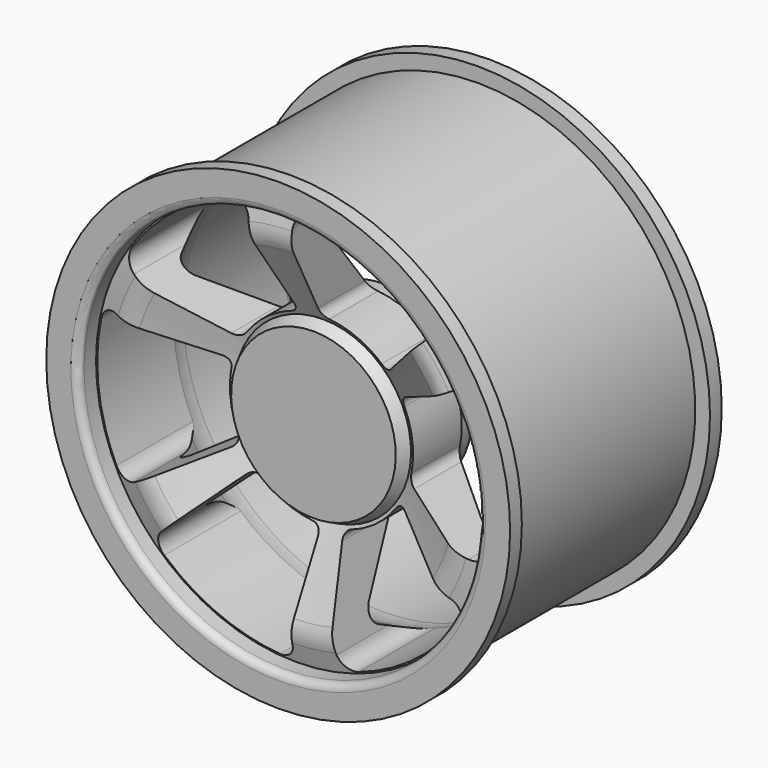
from build123d import *

# Parameters (mm, degrees)
F3_DEPTH      = 95.251
F3_DEPTH_BACK = 19.051


with BuildPart() as f1:
    # F0 (on Right) → F1 (revolve)
    with BuildSketch(Plane.YZ):
        with BuildLine():
            Line((-5.08, 0), (0, 0))
            Line((0, 0), (33.02, 0))
            Line((33.02, 0), (33.02, 38.1))
            Line((33.02, 38.1), (27.46375, 38.1))
            ThreePointArc((27.46375, 38.1), (26.7537984171, 38.2675968343), (26.19375, 38.735))
            Line((26.19375, 38.735), (4.6473478278, 67.4635362296))
            ThreePointArc((4.6473478278, 67.4635362296), (3.5602338618, 72.7865482354), (6.9874784568, 77.0020278137))
            Line((6.9874784568, 77.0020278137), (21.4722255844, 83.9299100354))
            ThreePointArc((21.4722255844, 83.9299100354), (26.8127505394, 85.7866395404), (32.4317030687, 86.4159436988))
            Line((32.4317030687, 86.4159436988), (86.995, 86.4159436988))
            ThreePointArc((86.995, 86.4159436988), (89.2400640303, 87.3458796686), (90.17, 89.5909436988))
            Line((90.17, 89.5909436988), (90.17, 100.2025900266))
            Line((90.17, 100.2025900266), (83.82, 100.2025900266))
            Line((83.82, 100.2025900266), (83.82, 93.8525900266))
            Line((83.82, 93.8525900266), (-17.78, 93.8525900266))
            Line((-17.78, 93.8525900266), (-17.78, 100.2025900266))
            Line((-17.78, 100.2025900266), (-24.13, 100.2025900266))
            Line((-24.13, 100.2025900266), (-24.13, 89.5909436988))
            ThreePointArc((-24.13, 89.5909436988), (-23.2000640303, 87.3458796686), (-20.955, 86.4159436988))
            Line((-20.955, 86.4159436988), (-14.4903469827, 86.4159436988))
            Line((-14.4903469827, 86.4159436988), (-16.5934176845, 78.2610862335))
            ThreePointArc((-16.5934176845, 78.2610862335), (-16.9249994995, 73.7506490708), (-15.6550071944, 69.4100143888))
            Line((-15.6550071944, 69.4100143888), (0, 38.1))
            Line((0, 38.1), (-5.08, 35.56))
            Line((-5.08, 35.56), (-5.08, 0))
        make_face()
    revolve(axis=Axis((0, 16.51, 0), (0, 1, 0)))

    # F2 (on face) → F3 (cut, two sides)
    with BuildSketch(Plane.XZ.offset(5.08)) as f3_sk:
        with BuildLine():
            ThreePointArc((56.9903334552, 54.8832398612), (58.9341280331, 59.591802539), (56.792400863, 64.2136965858))
            ThreePointArc((56.792400863, 64.2136965858), (33.5498297035, 78.8871634163), (6.858, 85.4502396778))
            ThreePointArc((6.858, 85.4502396778), (2.0432204607, 83.7868702543), (0, 79.1205922943))
            Line((0, 79.1205922943), (0, 43.2875272042))
            ThreePointArc((0, 43.2875272042), (0.9917783273, 40.7235992404), (3.4507751199, 39.4944997214))
            ThreePointArc((3.4507751199, 39.4944997214), (15.4673620389, 36.4282968671), (25.9704099279, 29.8339093924))
            ThreePointArc((25.9704099279, 29.8339093924), (28.5675614049, 28.8993860849), (31.1142198227, 29.9638392354))
            Line((31.1142198227, 29.9638392354), (56.9903334552, 54.8832398612))
        make_face()
        with BuildLine():
            ThreePointArc((-12.8517184641, 37.4079894404), (-10.7438218008, 39.1899269432), (-10.3923360614, 41.9276244031))
            Line((-10.3923360614, 41.9276244031), (-19.0351132342, 76.796696473))
            ThreePointArc((-19.0351132342, 76.796696473), (-22.1409508395, 80.834353296), (-27.2144920827, 81.2905101822))
            ThreePointArc((-27.2144920827, 81.2905101822), (-51.5433726993, 68.498586524), (-70.5730783205, 48.6643220581))
            ThreePointArc((-70.5730783205, 48.6643220581), (-71.5399479135, 43.6629159517), (-68.5204428893, 39.5602961471))
            Line((-68.5204428893, 39.5602961471), (-37.4880982259, 21.6437636021))
            ThreePointArc((-37.4880982259, 21.6437636021), (-34.7717823121, 21.2207048466), (-32.4778525085, 22.7357087773))
            ThreePointArc((-32.4778525085, 22.7357087773), (-23.8141494841, 31.6092768888), (-12.8517184641, 37.4079894404))
        make_face()
        with BuildLine():
            ThreePointArc((-38.822128392, 7.5740800481), (-39.3113832057, 10.2905408584), (-41.5065558842, 11.9637851677))
            Line((-41.5065558842, 11.9637851677), (-76.0254466894, 21.9134566117))
            ThreePointArc((-76.0254466894, 21.9134566117), (-81.0750788726, 21.242550757), (-84.0068929457, 17.0768135964))
            ThreePointArc((-84.0068929457, 17.0768135964), (-85.0932024027, -10.3885768923), (-77.4310783205, -36.7859176198))
            ThreePointArc((-77.4310783205, -36.7859176198), (-73.5831683742, -40.1239543026), (-68.5204428893, -39.5602961471))
            Line((-68.5204428893, -39.5602961471), (-37.4880982259, -21.6437636021))
            ThreePointArc((-37.4880982259, -21.6437636021), (-35.7635606394, -19.5028943938), (-35.9286276284, -16.7587909441))
            ThreePointArc((-35.9286276284, -16.7587909441), (-39.281511523, -4.8190199783), (-38.822128392, 7.5740800481))
        make_face()
        with BuildLine():
            ThreePointArc((-25.9704099279, -29.8339093924), (-28.5675614049, -28.8993860849), (-31.1142198227, -29.9638392354))
            Line((-31.1142198227, -29.9638392354), (-56.9903334552, -54.8832398612))
            ThreePointArc((-56.9903334552, -54.8832398612), (-58.9341280331, -59.591802539), (-56.792400863, -64.2136965858))
            ThreePointArc((-56.792400863, -64.2136965858), (-33.5498297035, -78.8871634163), (-6.858, -85.4502396778))
            ThreePointArc((-6.858, -85.4502396778), (-2.0432204607, -83.7868702543), (0, -79.1205922943))
            Line((0, -79.1205922943), (0, -43.2875272042))
            ThreePointArc((0, -43.2875272042), (-0.9917783273, -40.7235992404), (-3.4507751199, -39.4944997214))
            ThreePointArc((-3.4507751199, -39.4944997214), (-15.4673620389, -36.4282968671), (-25.9704099279, -29.8339093924))
        make_face()
        with BuildLine():
            ThreePointArc((12.8517184641, -37.4079894404), (10.7438218008, -39.1899269432), (10.3923360614, -41.9276244031))
            Line((10.3923360614, -41.9276244031), (19.0351132342, -76.796696473))
            ThreePointArc((19.0351132342, -76.796696473), (22.1409508395, -80.834353296), (27.2144920827, -81.2905101822))
            ThreePointArc((27.2144920827, -81.2905101822), (51.5433726993, -68.498586524), (70.5730783205, -48.6643220581))
            ThreePointArc((70.5730783205, -48.6643220581), (71.5399479135, -43.6629159517), (68.5204428893, -39.5602961471))
            Line((68.5204428893, -39.5602961471), (37.4880982259, -21.6437636021))
            ThreePointArc((37.4880982259, -21.6437636021), (34.7717823121, -21.2207048466), (32.4778525085, -22.7357087773))
            ThreePointArc((32.4778525085, -22.7357087773), (23.8141494841, -31.6092768888), (12.8517184641, -37.4079894404))
        make_face()
        with BuildLine():
            ThreePointArc((38.822128392, -7.5740800481), (39.3113832057, -10.2905408584), (41.5065558842, -11.9637851677))
            Line((41.5065558842, -11.9637851677), (76.0254466894, -21.9134566117))
            ThreePointArc((76.0254466894, -21.9134566117), (81.0750788726, -21.242550757), (84.0068929457, -17.0768135964))
            ThreePointArc((84.0068929457, -17.0768135964), (85.0932024027, 10.3885768923), (77.4310783205, 36.7859176198))
            ThreePointArc((77.4310783205, 36.7859176198), (73.5831683742, 40.1239543026), (68.5204428893, 39.5602961471))
            Line((68.5204428893, 39.5602961471), (37.4880982259, 21.6437636021))
            ThreePointArc((37.4880982259, 21.6437636021), (35.7635606394, 19.5028943938), (35.9286276284, 16.7587909441))
            ThreePointArc((35.9286276284, 16.7587909441), (39.281511523, 4.8190199783), (38.822128392, -7.5740800481))
        make_face()
    extrude(amount=-F3_DEPTH, mode=Mode.SUBTRACT)
    extrude(f3_sk.sketch, amount=F3_DEPTH_BACK, mode=Mode.SUBTRACT)


solid = f1.part
